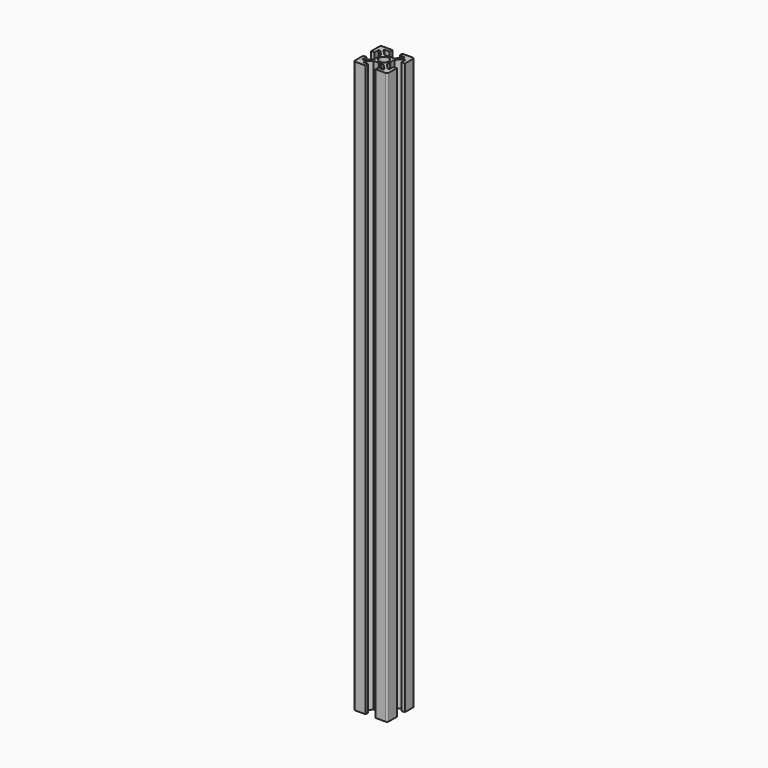
from build123d import *

# Parameters (mm, degrees)
SKETCH001_R = 2.9
PAD_DEPTH   = 170


with BuildPart() as part:
    # Sketch001 → Pad (new body, symmetric)
    with BuildSketch(Plane.XY):
        with BuildLine():
            Line((-8, -3), (-10, -3))
            Line((-10, -3), (-10, -9))
            ThreePointArc((-10, -9), (-9.707107, -9.707107), (-9, -10))
            Line((-9, -10), (-3, -10))
            Line((-3, -10), (-3, -8))
            Line((-3, -8), (-6, -8))
            Line((-6, -8), (-6, -7.06066))
            Line((-6, -7.06066), (-2.93934, -4))
            Line((-2.93934, -4), (-0.65359, -4))
            ThreePointArc((-0.65359, -4), (-0.52418, -3.982963), (-0.40359, -3.933013))
            Line((-0.40359, -3.933013), (0, -3.7))
            Line((0, -3.7), (0.40359, -3.933013))
            ThreePointArc((0.40359, -3.933013), (0.65359, -4), (0.90359, -3.933013))
            Line((0.90359, -3.933013), (1.218886, -3.750977))
            Line((1.218886, -3.750977), (2.5, -4))
            Line((2.5, -4), (2.93934, -4))
            Line((2.93934, -4), (6, -7.06066))
            Line((6, -7.06066), (6, -8))
            Line((6, -8), (3, -8))
            Line((3, -8), (3, -10))
            Line((3, -10), (9, -10))
            ThreePointArc((9, -10), (9.707107, -9.707107), (10, -9))
            Line((10, -9), (10, -3))
            Line((10, -3), (8, -3))
            Line((8, -3), (8, -6))
            Line((8, -6), (7.06066, -6))
            Line((7.06066, -6), (4, -2.93934))
            Line((4, -2.93934), (4, -0.65359))
            ThreePointArc((4, -0.65359), (3.982963, -0.52418), (3.933013, -0.40359))
            Line((3.933013, -0.40359), (3.7, 0))
            Line((3.7, 0), (3.933013, 0.40359))
            ThreePointArc((3.933013, 0.40359), (4, 0.65359), (3.933013, 0.90359))
            Line((3.933013, 0.90359), (3.750977, 1.218886))
            Line((3.750977, 1.218886), (4, 2.5))
            Line((4, 2.5), (4, 2.93934))
            Line((4, 2.93934), (7.06066, 6))
            Line((7.06066, 6), (8, 6))
            Line((8, 6), (8, 3))
            Line((8, 3), (10, 3))
            Line((10, 3), (10, 9))
            ThreePointArc((10, 9), (9.707107, 9.707107), (9, 10))
            Line((9, 10), (3, 10))
            Line((3, 10), (3, 8))
            Line((3, 8), (6, 8))
            Line((6, 8), (6, 7.06066))
            Line((6, 7.06066), (2.93934, 4))
            Line((2.93934, 4), (0.65359, 4))
            ThreePointArc((0.65359, 4), (0.52418, 3.982963), (0.40359, 3.933013))
            Line((0.40359, 3.933013), (0, 3.7))
            Line((0, 3.7), (-0.40359, 3.933013))
            ThreePointArc((-0.40359, 3.933013), (-0.65359, 4), (-0.90359, 3.933013))
            Line((-0.90359, 3.933013), (-1.218886, 3.750977))
            Line((-1.218886, 3.750977), (-2.5, 4))
            Line((-2.5, 4), (-2.93934, 4))
            Line((-2.93934, 4), (-6, 7.06066))
            Line((-6, 7.06066), (-6, 8))
            Line((-6, 8), (-3, 8))
            Line((-3, 8), (-3, 10))
            Line((-3, 10), (-9, 10))
            ThreePointArc((-9, 10), (-9.707107, 9.707107), (-10, 9))
            Line((-10, 9), (-10, 3))
            Line((-10, 3), (-8, 3))
            Line((-8, 3), (-8, 6))
            Line((-8, 6), (-7.06066, 6))
            Line((-7.06066, 6), (-4, 2.93934))
            Line((-4, 2.93934), (-4, 0.65359))
            ThreePointArc((-4, 0.65359), (-3.982963, 0.52418), (-3.933013, 0.40359))
            Line((-3.933013, 0.40359), (-3.7, 0))
            Line((-3.7, 0), (-3.933013, -0.40359))
            ThreePointArc((-3.933013, -0.40359), (-4, -0.65359), (-3.933013, -0.90359))
            Line((-3.933013, -0.90359), (-3.750977, -1.218886))
            Line((-3.750977, -1.218886), (-4, -2.5))
            Line((-4, -2.5), (-4, -2.93934))
            Line((-4, -2.93934), (-7.06066, -6))
            Line((-7.06066, -6), (-8, -6))
            Line((-8, -6), (-8, -3))
        make_face()
        Circle(SKETCH001_R, mode=Mode.SUBTRACT)
    extrude(amount=PAD_DEPTH, both=True)


solid = part.part
